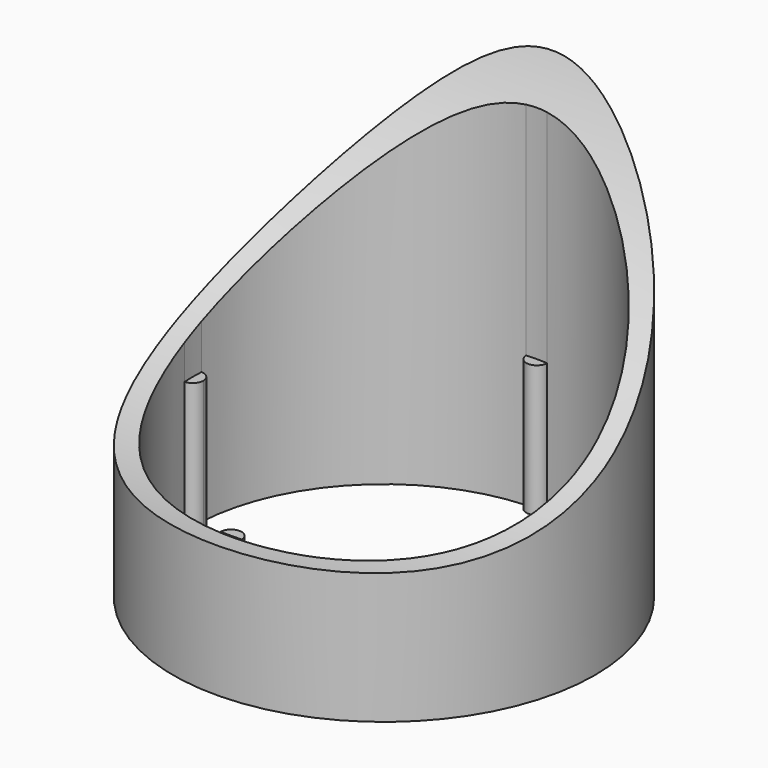
from build123d import *

# Parameters (mm, degrees)
F0_R     = 8
F1_DEPTH = 15
F3_DEPTH = 12.5
F4_DEPTH = 5


with BuildPart() as f1:
    # F0 (on Top) → F1 (new body)
    with BuildSketch(Plane.XY):
        Circle(F0_R)
        with BuildLine():
            ThreePointArc((0.3998477713, 7.2389655172), (5.1265241636, 5.1265241636), (7.2389655172, 0.3998477713))
            ThreePointArc((7.2389655172, 0.3998477713), (7.5289141507, 0.2867174507), (7.65, 0))
            ThreePointArc((7.65, 0), (7.5289141507, -0.2867174507), (7.2389655172, -0.3998477713))
            ThreePointArc((7.2389655172, -0.3998477713), (5.1265241636, -5.1265241636), (0.3998477713, -7.2389655172))
            ThreePointArc((0.3998477713, -7.2389655172), (0.399961941, -7.2444822336), (0.4, -7.25))
            ThreePointArc((0.4, -7.25), (-0.0055177664, -7.649961941), (-0.3998477713, -7.2389655172))
            ThreePointArc((-0.3998477713, -7.2389655172), (-5.1265241636, -5.1265241636), (-7.2389655172, -0.3998477713))
            ThreePointArc((-7.2389655172, -0.3998477713), (-7.65, 0), (-7.2389655172, 0.3998477713))
            ThreePointArc((-7.2389655172, 0.3998477713), (-5.1265241636, 5.1265241636), (-0.3998477713, 7.2389655172))
            ThreePointArc((-0.3998477713, 7.2389655172), (-0.0055177664, 7.649961941), (0.4, 7.25))
            ThreePointArc((0.4, 7.25), (0.399961941, 7.2444822336), (0.3998477713, 7.2389655172))
        make_face(mode=Mode.SUBTRACT)
        with BuildLine():
            ThreePointArc((-7.2389655172, -0.3998477713), (-7.25, 0), (-7.2389655172, 0.3998477713))
            ThreePointArc((-7.2389655172, 0.3998477713), (-7.65, 0), (-7.2389655172, -0.3998477713))
        make_face()
        with BuildLine():
            ThreePointArc((0.4, -7.25), (0.399961941, -7.2444822336), (0.3998477713, -7.2389655172))
            ThreePointArc((0.3998477713, -7.2389655172), (0, -7.25), (-0.3998477713, -7.2389655172))
            ThreePointArc((-0.3998477713, -7.2389655172), (-0.0055177664, -7.649961941), (0.4, -7.25))
        make_face()
        with BuildLine():
            ThreePointArc((7.2389655172, 0.3998477713), (7.2472408543, 0.2), (7.25, 0))
            ThreePointArc((7.25, 0), (7.2472408543, -0.2), (7.2389655172, -0.3998477713))
            ThreePointArc((7.2389655172, -0.3998477713), (7.5289141507, -0.2867174507), (7.65, 0))
            ThreePointArc((7.65, 0), (7.5289141507, 0.2867174507), (7.2389655172, 0.3998477713))
        make_face()
        with BuildLine():
            ThreePointArc((-0.3998477713, 7.2389655172), (0, 7.25), (0.3998477713, 7.2389655172))
            ThreePointArc((0.3998477713, 7.2389655172), (0.399961941, 7.2444822336), (0.4, 7.25))
            ThreePointArc((0.4, 7.25), (-0.0055177664, 7.649961941), (-0.3998477713, 7.2389655172))
        make_face()
    extrude(amount=F1_DEPTH)

    # F2 (on Right) → F3 (cut, symmetric)
    with BuildSketch(Plane.YZ):
        Polygon((-8, 15), (-8, 5), (8, 15), align=None)
        with BuildLine():
            Line((8, 15), (-8, 5))
            ThreePointArc((-8, 5), (1.6308873071, 7.3905803087), (8, 15))
        make_face()
    extrude(amount=F3_DEPTH, both=True, mode=Mode.SUBTRACT)

    # F0 (on Top) → F4 (join)
    with BuildSketch(Plane.XY):
        with BuildLine():
            ThreePointArc((-6.85, 0), (-6.9632825493, 0.2789141507), (-7.2389655172, 0.3998477713))
            ThreePointArc((-7.2389655172, 0.3998477713), (-7.25, 0), (-7.2389655172, -0.3998477713))
            ThreePointArc((-7.2389655172, -0.3998477713), (-6.9632825493, -0.2789141507), (-6.85, 0))
        make_face()
        with BuildLine():
            ThreePointArc((-0.3998477713, -7.2389655172), (0, -7.25), (0.3998477713, -7.2389655172))
            ThreePointArc((0.3998477713, -7.2389655172), (0, -6.85), (-0.3998477713, -7.2389655172))
        make_face()
        with BuildLine():
            ThreePointArc((7.2389655172, -0.3998477713), (7.2472408543, -0.2), (7.25, 0))
            ThreePointArc((7.25, 0), (7.2472408543, 0.2), (7.2389655172, 0.3998477713))
            ThreePointArc((7.2389655172, 0.3998477713), (6.85, 0), (7.2389655172, -0.3998477713))
        make_face()
        with BuildLine():
            ThreePointArc((-0.3998477713, 7.2389655172), (0, 6.85), (0.3998477713, 7.2389655172))
            ThreePointArc((0.3998477713, 7.2389655172), (0, 7.25), (-0.3998477713, 7.2389655172))
        make_face()
    extrude(amount=F4_DEPTH)


solid = f1.part
